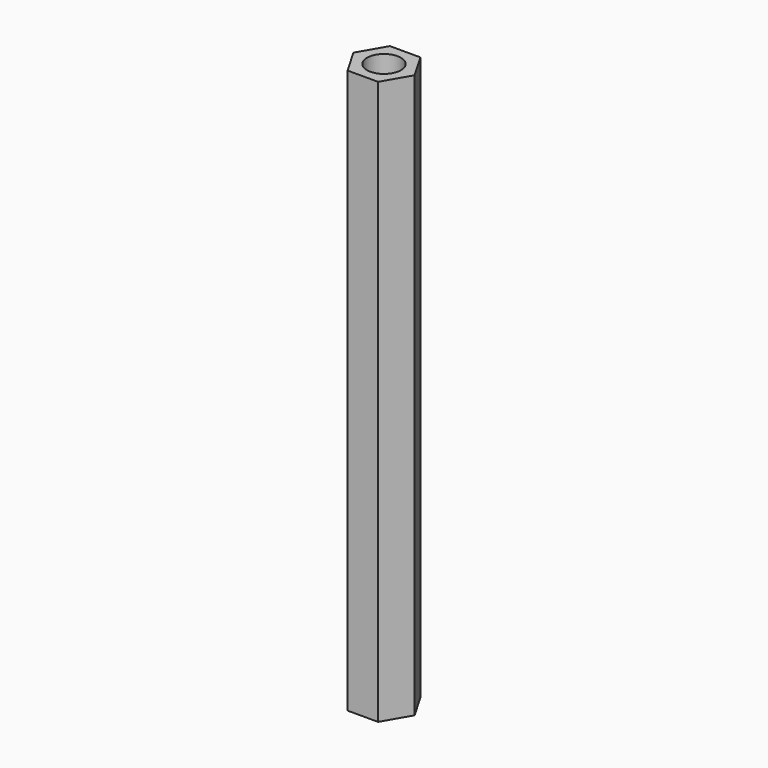
from build123d import *

# Parameters (mm, degrees)
SKETCH_R  = 1.5
PAD_DEPTH = 50


with BuildPart() as part:
    # Sketch → Pad (new body)
    with BuildSketch(Plane.XY):
        Polygon((1.356773, -2.35), (2.713546, 0), (1.356773, 2.35), (-1.356773, 2.35), (-2.713546, 0), (-1.356773, -2.35), align=None)
        Circle(SKETCH_R, mode=Mode.SUBTRACT)
    extrude(amount=PAD_DEPTH)


solid = part.part
